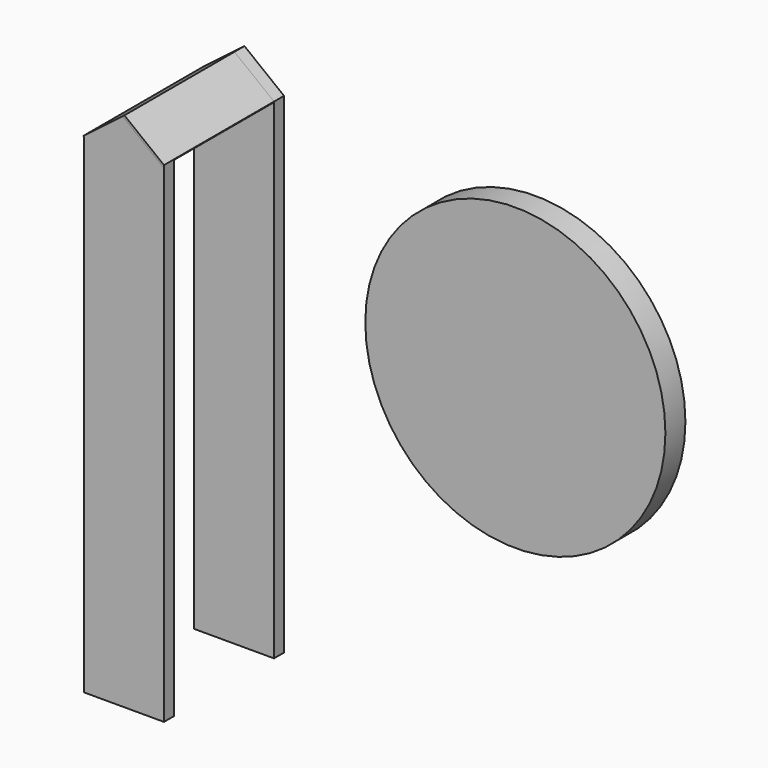
from build123d import *

# Parameters (mm, degrees)
F1_DEPTH = 3.175
F2_W     = 12.7448869769
F2_H     = 34.925
F3_W     = 12.930203917
F3_H     = 34.925
F4_DEPTH = 0.5588
F6_DEPTH = 3.175
F7_R     = 38.1
F8_DEPTH = 6.35


with BuildPart() as f1:
    # F0 (on Front) → F1 (new body)
    with BuildSketch(Plane.XZ):
        Polygon((-10.2770774922, 63.9884688905), (-10.2770774922, -60.4715311095), (10.0429225078, -60.4715311095), (10.0429225078, 63.9884688905), (0, 71.8352422118), align=None)
    extrude(amount=F1_DEPTH)

    # F2 (on face) + F3 (on face) → F4 (join)
    with BuildSketch(Plane(origin=(34.8511250209, 0, 44.6052324395), x_dir=(0.7879962, 0, -0.6156801026), z_dir=(0.6156801026, 0, 0.7879962))):
        with Locations((-37.8550858053, -20.6375)):
            Rectangle(F2_W, F2_H)
    with BuildSketch(Plane(origin=(-34.6487483252, 0, 45.380165447), x_dir=(0.7948117105, 0, 0.6068561155), z_dir=(-0.6068561155, 0, 0.7948117105))):
        with Locations((37.1285540838, -20.6375)):
            Rectangle(F3_W, F3_H)
    extrude(amount=-F4_DEPTH, dir=(0.6156801026, 0, 0.7879962))


with BuildPart() as f6:
    # F5 (on face) → F6 (new body)
    with BuildSketch(Plane.XZ.offset(38.1)):
        Polygon((9.1353083139, 63.9884688905), (-10.0444074579, 63.9884688905), (-10.2770774922, 63.8108202332), (-10.2770774922, -60.4715311095), (10.0429225078, -60.4715311095), (10.0429225078, 63.9884688905), (9.6988804665, 63.5481366139), align=None)
        Polygon((-0.3440420413, 71.3949099352), (-10.0444074579, 63.9884688905), (9.1353083139, 63.9884688905), align=None)
    extrude(amount=-F6_DEPTH)


with BuildPart() as f8:
    # F7 (on Front) → F8 (new body)
    with BuildSketch(Plane.XZ):
        with Locations((73.8554428822, 24.3084832607)):
            Circle(F7_R)
    extrude(amount=F8_DEPTH)


solid = Compound([f1.part, f6.part, f8.part])
